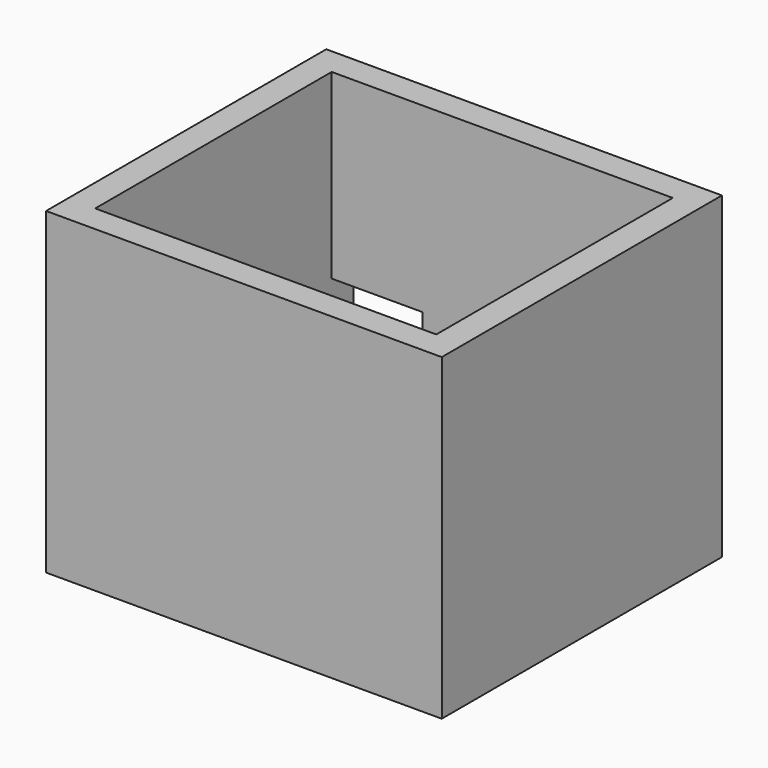
from build123d import *

# Parameters (mm, degrees)
F0_W     = 17.4
F0_H     = 15.4
F1_DEPTH = 14
F2_W     = 15
F2_H     = 13
F3_DEPTH = 12
F4_W     = 4
F4_H     = 4
F5_DEPTH = 1.2


with BuildPart() as f1:
    # F0 (on Top) → F1 (new body)
    with BuildSketch(Plane.XY):
        Rectangle(F0_W, F0_H)
    extrude(amount=F1_DEPTH)

    # F2 (on face) → F3 (cut)
    with BuildSketch(Plane.XY.offset(14)):
        Rectangle(F2_W, F2_H)
    extrude(amount=-F3_DEPTH, mode=Mode.SUBTRACT)

    # F4 (on face) → F5 (cut)
    with BuildSketch(Plane.XZ.offset(-6.5)):
        with Locations((-5.5, 4)):
            Rectangle(F4_W, F4_H)
    extrude(amount=-F5_DEPTH, mode=Mode.SUBTRACT)


solid = f1.part
